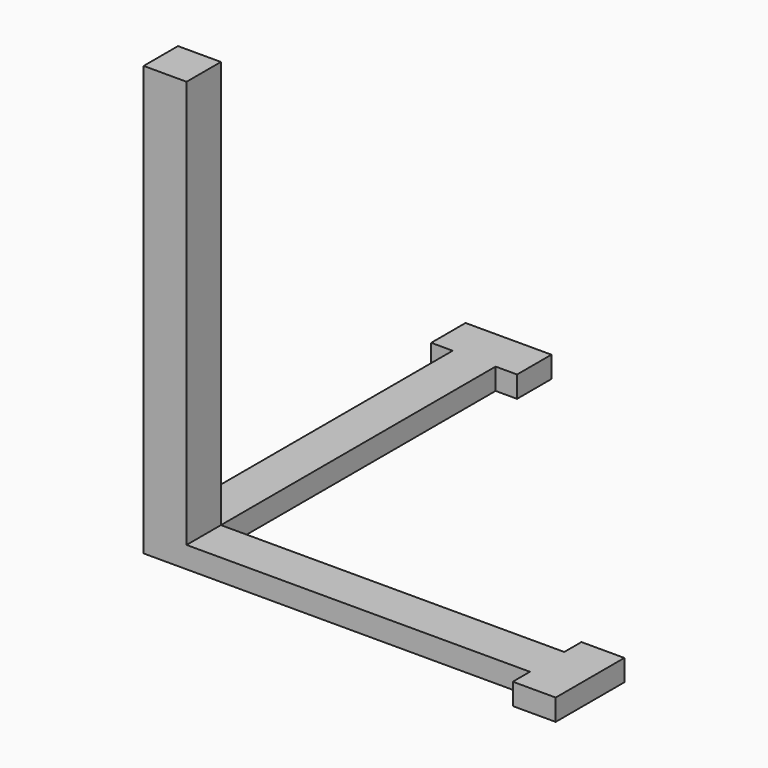
from build123d import *

# Parameters (mm, degrees)
F1_DEPTH = 5
F2_W     = 10
F2_H     = 10
F3_DEPTH = 95


with BuildPart() as f1:
    # F0 (on Top) → F1 (new body)
    with BuildSketch(Plane.XY):
        Polygon((5, 90), (-15, 90), (-15, 80), (-10, 80), (-10, -10), (80, -10), (80, -15), (90, -15), (90, 5), (80, 5), (80, 0), (0, 0), (0, 80), (5, 80), align=None)
    extrude(amount=F1_DEPTH)

    # F2 (on face) → F3 (join)
    with BuildSketch(Plane.XY.offset(5)):
        with Locations((-5, -5)):
            Rectangle(F2_W, F2_H)
    extrude(amount=F3_DEPTH)


solid = f1.part
